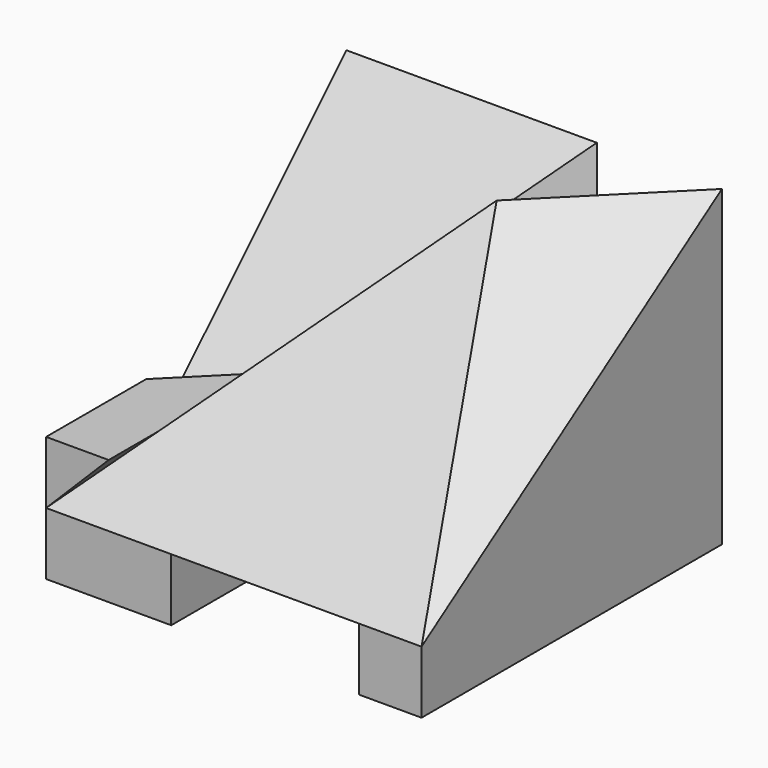
from build123d import *

# Parameters (mm, degrees)
F0_W      = 30
F0_H      = 30
F1_DEPTH  = 25
F6_W      = 15
F6_H      = 20
F10_DEPTH = 5
F11_DEPTH = 30.0010001
F12_DEPTH = 15


with BuildPart() as f1:
    # F0 (on Top) → F1 (new body)
    with BuildSketch(Plane.XY):
        with Locations((15, 15)):
            Rectangle(F0_W, F0_H)
    extrude(amount=F1_DEPTH)

    # F2 (on face) → F7 section 0
    with BuildSketch(Plane.XY.offset(25), mode=Mode.PRIVATE) as f7_s0:
        Polygon((0, 10), (20, 30), (0, 30), align=None)
    loft([f7_s0.sketch, Vertex(0, 10, 5)], mode=Mode.SUBTRACT)

    # F2 (on face) → F8 section 0
    with BuildSketch(Plane.XY.offset(25), mode=Mode.PRIVATE) as f8_s0:
        Polygon((30, 0), (30, 30), (20, 20), align=None)
    loft([f8_s0.sketch, Vertex(30, 0, 5)], mode=Mode.SUBTRACT)

    # F3 (on face) → F9 section 0
    with BuildSketch(Plane.XZ, mode=Mode.PRIVATE) as f9_s0:
        Polygon((30, 25), (20, 25), (30, 5), align=None)
    loft([f9_s0.sketch, Vertex(20, 20, 25)], mode=Mode.SUBTRACT)

    # F6 (on face) → F10 (cut)
    with BuildSketch(Plane(origin=(0, 0, 0), x_dir=(1, 0, 0), z_dir=(0, 0, -1))):
        with Locations((17.5, -10)):
            Rectangle(F6_W, F6_H)
    extrude(amount=-F10_DEPTH, mode=Mode.SUBTRACT)

    # F4 (on face) → F11 (cut, through all)
    with BuildSketch(Plane.YZ.offset(30)):
        Polygon((0, 25), (0, 5), (20, 25), align=None)
    extrude(amount=-F11_DEPTH, mode=Mode.SUBTRACT)

    # F2 (on face) → F12 (cut)
    with BuildSketch(Plane.XY.offset(25)):
        Polygon((30, 30), (20, 30), (0, 10), (0, 0), (20, 20), align=None)
    extrude(amount=-F12_DEPTH, mode=Mode.SUBTRACT)

    # F13 (on face) → F14 (join, up to the next surface of F1)
    with BuildSketch(Plane.XZ):
        Polygon((0, 5), (5, 10), (0, 10), align=None)
    extrude(until=Until.NEXT, dir=(0, 1, 0))


solid = f1.part
